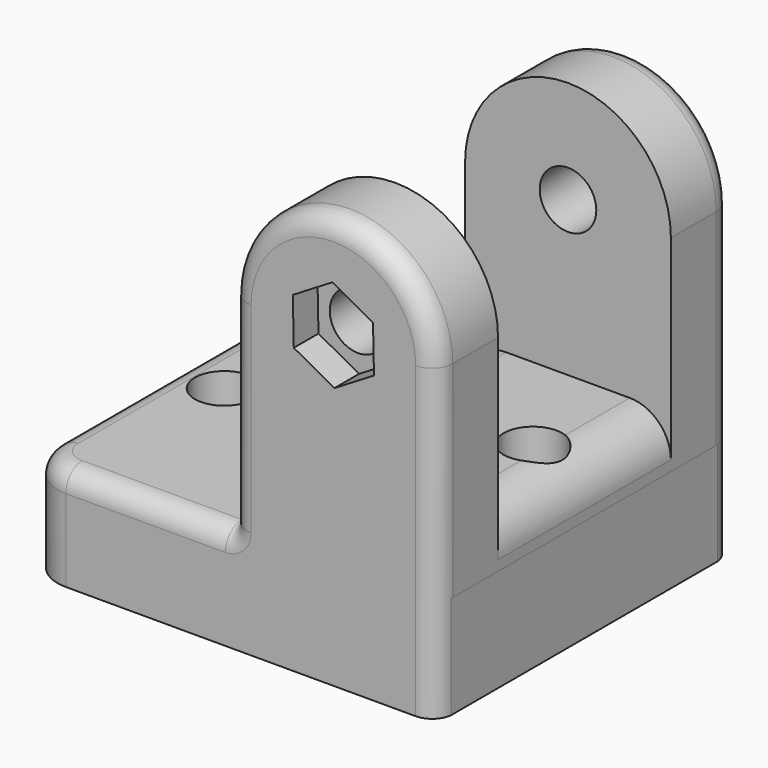
from build123d import *

# Parameters (mm, degrees)
PAD_DEPTH       = 36
SKETCH001_W     = 41.77589
SKETCH001_H     = 47.890068
POCKET_DEPTH    = 10.5
SKETCH002_R     = 2.75
POCKET001_DEPTH = 36.001
FILLET_R        = 4
FILLET001_R     = 0.5
SKETCH003_R     = 2.85
HOLE_DEPTH      = 16.001
FILLET002_R     = 4
CHAMFER_SIZE    = 2
POCKET002_DEPTH = 3
FILLET003_R     = 2


with BuildPart() as part:
    # Sketch → Pad (new body)
    with BuildSketch(Plane.XZ):
        with BuildLine():
            Line((-30.008135, 0), (9.991865, 0))
            Line((9.991865, 10), (9.991865, 0))
            Line((10, 10), (9.991865, 10))
            Line((10, 30), (10, 10))
            ThreePointArc((10, 30), (0, 40), (-10, 30))
            Line((-10, 10), (-10, 30))
            Line((-30.008135, 10), (-10, 10))
            Line((-30.008135, 0), (-30.008135, 10))
        make_face()
    extrude(amount=PAD_DEPTH)

    # Sketch001 (on DatumPlane) → Pocket (cut, symmetric)
    with BuildSketch(Plane(origin=(0, -18, 0), x_dir=(1, 0, 0), z_dir=(0, 1, 0))):
        with Locations((0.131337, -38.945034)):
            Rectangle(SKETCH001_W, SKETCH001_H)
    extrude(amount=POCKET_DEPTH, both=True, mode=Mode.SUBTRACT)

    # Sketch002 (on Face4 of Pocket) → Pocket001 (cut, through all)
    with BuildSketch(Plane(origin=(0, 0, 0), x_dir=(1, 0, 0), z_dir=(0, 1, 0))):
        with Locations((0, -30)):
            Circle(SKETCH002_R)
    extrude(amount=-POCKET001_DEPTH, mode=Mode.SUBTRACT)

    # Fillet
    fillet_edges = [part.edges().sort_by_distance(p)[0] for p in [
        (10, -18, 15),
        (-10, -18, 15),
    ]]
    fillet(fillet_edges, radius=FILLET_R)

    # Fillet001
    fillet001_edges = [part.edges().sort_by_distance(p)[0] for p in [
        (-10, -18, 10),
    ]]
    fillet(fillet001_edges, radius=FILLET001_R)

    # Sketch003 (on DatumPlane) → Hole (cut, through all)
    with BuildSketch(Plane(origin=(0, 0, 16), x_dir=(1, 0, 0), z_dir=(0, 0, -1))):
        with Locations((4.991865, 18)):
            Circle(SKETCH003_R)
        with Locations((-25.008135, 18)):
            Circle(SKETCH003_R)
    extrude(amount=HOLE_DEPTH, mode=Mode.SUBTRACT)

    # Fillet002
    fillet002_edges = [part.edges().sort_by_distance(p)[0] for p in [
        (-30.008135, 0, 5),
        (-30.008135, -36, 5),
    ]]
    fillet(fillet002_edges, radius=FILLET002_R)

    # Chamfer
    chamfer_edges = [part.edges().sort_by_distance(p)[0] for p in [
        (-2.75, 0, 30),
    ]]
    chamfer(chamfer_edges, length=CHAMFER_SIZE)

    # Sketch004 (on Face14 of Chamfer) → Pocket002 (cut)
    with BuildSketch(Plane.XZ.offset(36)):
        Polygon((-0.093793, 34.5), (-3.944011, 32.168773), (-3.850218, 27.668773), (0.093793, 25.5), (3.944011, 27.831227), (3.850218, 32.331227), align=None)
    extrude(amount=-POCKET002_DEPTH, mode=Mode.SUBTRACT)

    # Fillet003
    fillet003_edges = [part.edges().sort_by_distance(p)[0] for p in [
        (10, 0, 20),
        (10, -36, 20),
    ]]
    fillet(fillet003_edges, radius=FILLET003_R)


solid = part.part
